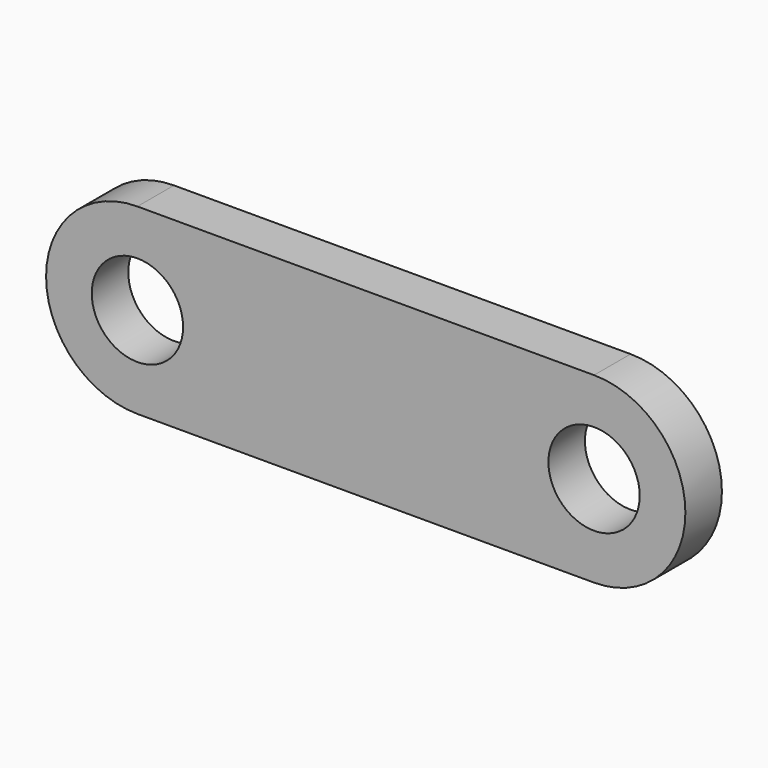
from build123d import *

# Parameters (mm, degrees)
F1_DEPTH = 12.7
F2_R     = 25.4
F3_DEPTH = 25.401


with BuildPart() as f1:
    # F0 (on Front) → F1 (new body, symmetric)
    with BuildSketch(Plane.XZ):
        with BuildLine():
            Line((127, 50.8), (-127, 50.8))
            ThreePointArc((-127, 50.8), (-177.8, 0), (-127, -50.8))
            Line((-127, -50.8), (127, -50.8))
            ThreePointArc((127, -50.8), (177.8, 0), (127, 50.8))
        make_face()
    extrude(amount=F1_DEPTH, both=True)

    # F2 (on face) → F3 (cut, through all)
    with BuildSketch(Plane.XZ.offset(12.7)):
        with Locations((-127, 0)):
            Circle(F2_R)
        with Locations((127, 0)):
            Circle(F2_R)
    extrude(amount=-F3_DEPTH, mode=Mode.SUBTRACT)


solid = f1.part
